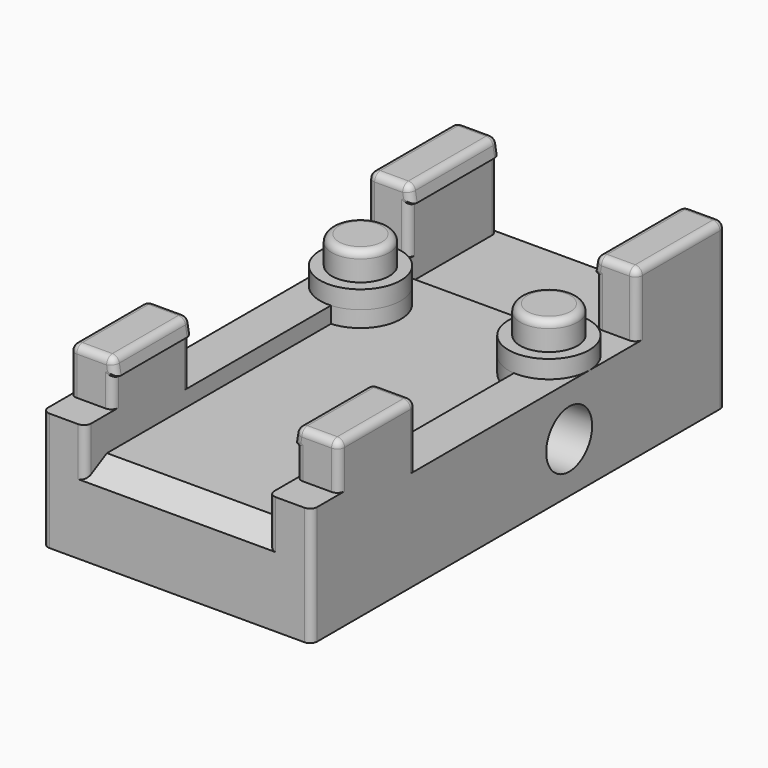
from build123d import *

# Parameters (mm, degrees)
SKETCH001_W          = 15
SKETCH001_H          = 28.85
PAD_DEPTH            = 5.6
SKETCH002_R          = 2.25
SKETCH002_W          = 2.3
SKETCH002_H          = 6.2
SKETCH002_W_2        = 2.4
SKETCH002_H_2        = 7.3
PAD001_DEPTH         = 1
SKETCH010_W          = 2.3
SKETCH010_H          = 6.2
SKETCH010_W_2        = 2.4
SKETCH010_H_2        = 5.4
PAD004_DEPTH         = 2.55
SKETCH003_R          = 1.6
PAD002_DEPTH         = 1.55
PAD006_DEPTH         = 6.2
PAD005_DEPTH         = 5.4
POCKET_DEPTH         = 0.9
SKETCH013_W          = 10.4
SKETCH013_H          = 6.2
POCKET003_DEPTH      = 1.2
CHAMFER_SIZE2        = 1.5
CHAMFER_SIZE         = 0.8
FILLET_R             = 0.4
SKETCH009_R          = 1.6
POCKET002_DEPTH      = 7.501
POCKET002_DEPTH_BACK = 7.501


with BuildPart() as part:
    # Sketch001 → Pad (new body)
    with BuildSketch(Plane.XY):
        with Locations((0, -4.925)):
            Rectangle(SKETCH001_W, SKETCH001_H)
    extrude(amount=PAD_DEPTH)

    # Sketch002 → Pad001 (join)
    with BuildSketch(Plane.XY.offset(5.6)):
        with Locations((-5.25, 0)):
            Circle(SKETCH002_R)
        with Locations((5.25, 0)):
            Circle(SKETCH002_R)
        with Locations((-6.35, 6.4)):
            Rectangle(SKETCH002_W, SKETCH002_H)
        with Locations((6.35, 6.4)):
            Rectangle(SKETCH002_W, SKETCH002_H)
        with Locations((-6.3, -15.7)):
            Rectangle(SKETCH002_W_2, SKETCH002_H_2)
        with Locations((6.3, -15.7)):
            Rectangle(SKETCH002_W_2, SKETCH002_H_2)
    extrude(amount=PAD001_DEPTH)

    # Sketch010 → Pad004 (join)
    with BuildSketch(Plane.XY.offset(6.6)):
        with Locations((-6.35, 6.4)):
            Rectangle(SKETCH010_W, SKETCH010_H)
        with Locations((6.35, 6.4)):
            Rectangle(SKETCH010_W, SKETCH010_H)
        with Locations((6.3, -14.75)):
            Rectangle(SKETCH010_W_2, SKETCH010_H_2)
        with Locations((-6.3, -14.75)):
            Rectangle(SKETCH010_W_2, SKETCH010_H_2)
    extrude(amount=PAD004_DEPTH)

    # Sketch003 → Pad002 (join)
    with BuildSketch(Plane.XY.offset(6.6)):
        with Locations((-5.25, 0)):
            Circle(SKETCH003_R)
        with Locations((5.25, 0)):
            Circle(SKETCH003_R)
    extrude(amount=PAD002_DEPTH)

    # Sketch012 (on DatumPlane) → Pad006 (join)
    with BuildSketch(Plane(origin=(5.2, 9.5, 0), x_dir=(1, 0, 0), z_dir=(0, -1, 0))):
        Polygon((0, 8.15), (0, 9.15), (-0.15, 8.236603), align=None)
        Polygon((-10.4, 8.15), (-10.4, 9.15), (-10.25, 8.236603), align=None)
    extrude(amount=PAD006_DEPTH)

    # Sketch011 (on DatumPlane) → Pad005 (join)
    with BuildSketch(Plane(origin=(-5.1, -12.05, 0), x_dir=(-1, 0, 0), z_dir=(0, 1, 0))):
        Polygon((0, 8.15), (-0.15, 8.236603), (0, 9.15), align=None)
        Polygon((-10.2, 8.15), (-10.2, 9.15), (-10.05, 8.236603), align=None)
    extrude(amount=-PAD005_DEPTH)

    # Sketch004 → Pocket (cut)
    with BuildSketch(Plane.XY.offset(5.6)):
        with BuildLine():
            ThreePointArc((-5.1, -2.244994), (-3.000557, 0.050049), (-5.2, 2.249444))
            Line((-5.2, 9.5), (-5.2, 2.249444))
            Line((-5.2, 9.5), (5.2, 9.5))
            Line((5.2, 9.5), (5.2, 2.249444))
            ThreePointArc((5.2, 2.249444), (3.000557, 0.050049), (5.1, -2.244994))
            Line((5.1, -19.35), (5.1, -2.244994))
            Line((-5.1, -19.35), (5.1, -19.35))
            Line((-5.1, -19.35), (-5.1, -2.244994))
        make_face()
    extrude(amount=-POCKET_DEPTH, mode=Mode.SUBTRACT)

    # Sketch013 → Pocket003 (cut)
    with BuildSketch(Plane.XY.offset(5.6)):
        with Locations((0, 6.4)):
            Rectangle(SKETCH013_W, SKETCH013_H)
    extrude(amount=-POCKET003_DEPTH, mode=Mode.SUBTRACT)

    # Chamfer
    chamfer_edges = [part.edges().sort_by_distance(p)[0] for p in [
        (0, -19.35, 4.7),
    ]]
    chamfer_side = part.faces().sort_by_distance((0, -19.35, 2.727995))[0]
    chamfer(chamfer_edges, length=CHAMFER_SIZE, length2=CHAMFER_SIZE2, reference=chamfer_side)

    # Fillet
    fillet_edges = [part.edges().sort_by_distance(p)[0] for p in [
        (-5.025, -17.45, 8.693301),
        (-5.1, -17.45, 7.375),
        (-5.025, -17.45, 8.193301),
        (5.1, -17.45, 7.375),
        (5.025, -17.45, 8.193301),
        (5.025, -17.45, 8.693301),
        (-5.2, 3.3, 6.875),
        (-5.125, 3.3, 8.193301),
        (-5.125, 3.3, 8.693301),
        (5.2, 3.3, 6.875),
        (5.125, 3.3, 8.193301),
        (5.125, 3.3, 8.693301),
        (5.125, 9.5, 8.693301),
        (5.125, 9.5, 8.193301),
        (5.2, 9.5, 6.275),
        (-5.125, 9.5, 8.693301),
        (-5.125, 9.5, 8.193301),
        (-5.2, 9.5, 6.275),
        (-5.1, -12.05, 6.875),
        (-5.025, -12.05, 8.193301),
        (-5.025, -12.05, 8.693301),
        (5.025, -12.05, 8.693301),
        (5.025, -12.05, 8.193301),
        (5.1, -12.05, 6.875),
        (-6.85, 0, 8.15),
        (3.65, 0, 8.15),
        (5.2, 6.4, 9.15),
        (5.1, -14.75, 9.15),
        (-5.1, -14.75, 9.15),
        (-5.2, 6.4, 9.15),
        (6.35, 9.5, 9.15),
        (6.35, 3.3, 9.15),
        (7.5, 6.4, 9.15),
        (6.3, -12.05, 9.15),
        (7.5, -14.75, 9.15),
        (6.3, -17.45, 9.15),
        (-6.35, 9.5, 9.15),
        (-7.5, 6.4, 9.15),
        (-6.35, 3.3, 9.15),
        (-7.5, -14.75, 9.15),
        (-6.3, -17.45, 9.15),
        (-7.5, -17.45, 7.875),
        (-6.3, -12.05, 9.15),
        (-7.5, -12.05, 7.375),
        (7.5, -12.05, 7.375),
        (-7.5, 3.3, 7.375),
        (7.5, -17.45, 7.875),
        (7.5, 3.3, 7.375),
        (-7.5, -19.35, 3.3),
        (7.5, -19.35, 3.3),
        (7.5, 9.5, 4.575),
        (-7.5, 9.5, 4.575),
        (-5.1, -19.35, 5.65),
        (5.1, -19.35, 5.65),
    ]]
    fillet(fillet_edges, radius=FILLET_R)

    # Sketch009 → Pocket002 (cut, two sides)
    with BuildSketch(Plane.YZ) as pocket002_sk:
        with Locations((-1.4, 2.8)):
            Circle(SKETCH009_R)
    extrude(amount=-POCKET002_DEPTH, mode=Mode.SUBTRACT)
    extrude(pocket002_sk.sketch, amount=POCKET002_DEPTH_BACK, mode=Mode.SUBTRACT)


solid = part.part
